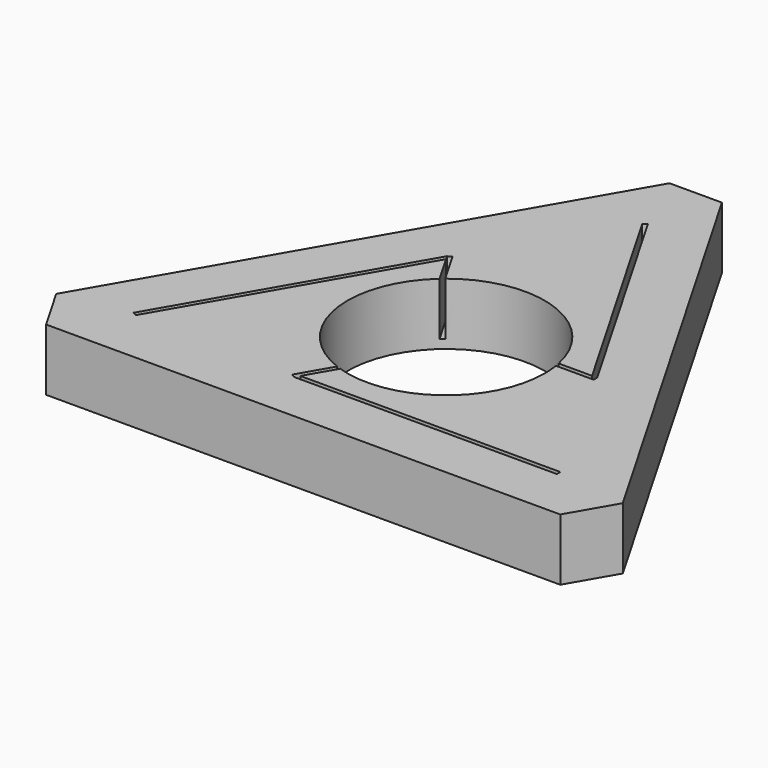
from build123d import *

# Parameters (mm, degrees)
F0_R     = 11.15
F1_DEPTH = 3.5
F3_DEPTH = 6


with BuildPart() as f1:
    # F0 (on Top) → F1 (new body, symmetric)
    with BuildSketch(Plane.XY):
        Polygon((-29.073366, -20.207259), (29.073366, -20.207259), (32.036683, -15.074644), (2.963317, 35.281903), (-2.963317, 35.281903), (-32.036683, -15.074644), align=None)
        Circle(F0_R, mode=Mode.SUBTRACT)
    extrude(amount=F1_DEPTH, both=True)

    # F2 (on face) → F3 (cut)
    with BuildSketch(Plane.XY.offset(3.5)):
        Polygon((14.704705, 2.253575), (10.919886, 2.253575), (10.919886, 1.753575), (15.282055, 1.753575), (15.282055, 2.253575), align=None)
        Polygon((0, 27.722871), (14.704705, 2.253575), (15.282055, 2.253575), (0.433013, 27.972871), align=None)
        Polygon((-9.304005, 11.607861), (-9.592681, 12.107861), (-24.441723, -13.611435), (-24.00871, -13.861435), align=None)
        Polygon((-9.159668, 12.357861), (-9.592681, 12.107861), (-9.304005, 11.607861), (-7.411596, 8.330111), (-6.978583, 8.580111), align=None)
        Polygon((-5.4007, -13.861435), (-5.689375, -14.361435), (24.00871, -14.361435), (24.00871, -13.861435), align=None)
        Polygon((-6.122387, -14.111435), (-5.689375, -14.361435), (-5.4007, -13.861435), (-3.50829, -10.583686), (-3.941303, -10.333686), align=None)
    extrude(amount=-F3_DEPTH, mode=Mode.SUBTRACT)


solid = f1.part
